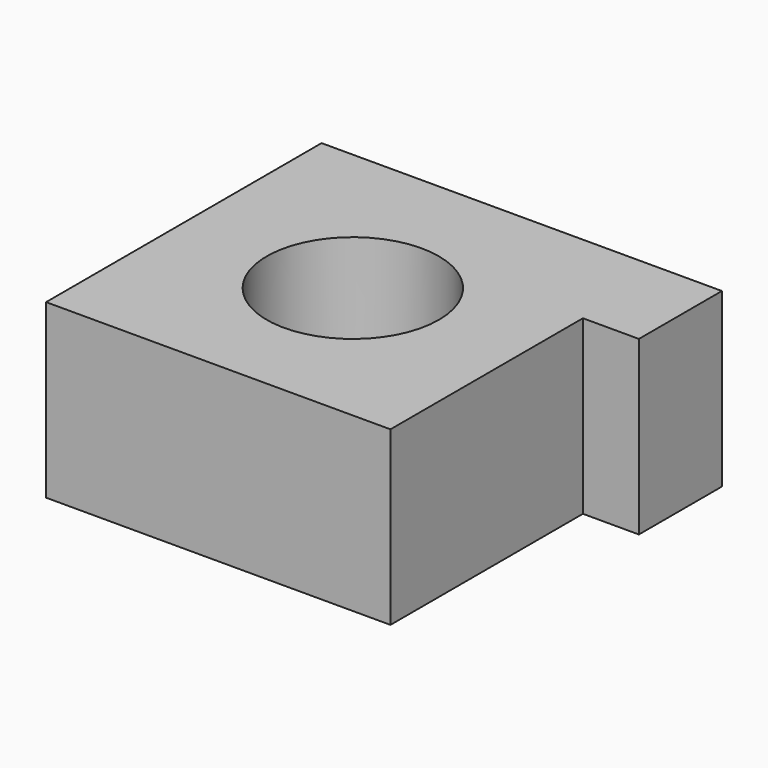
from build123d import *

# Parameters (mm, degrees)
F0_R     = 12.5
F0_W     = 8.128976
F0_H     = 15.06926
F1_DEPTH = 25


with BuildPart() as f1:
    # F0 (on Top) → F1 (new body)
    with BuildSketch(Plane.XY):
        Polygon((-50, 0), (0, 0), (0, 34.93074), (0, 50), (-50, 50), align=None)
        with Locations((-25, 24.419218)):
            Circle(F0_R, mode=Mode.SUBTRACT)
        with Locations((4.064488, 42.46537)):
            Rectangle(F0_W, F0_H)
    extrude(amount=F1_DEPTH)


solid = f1.part
